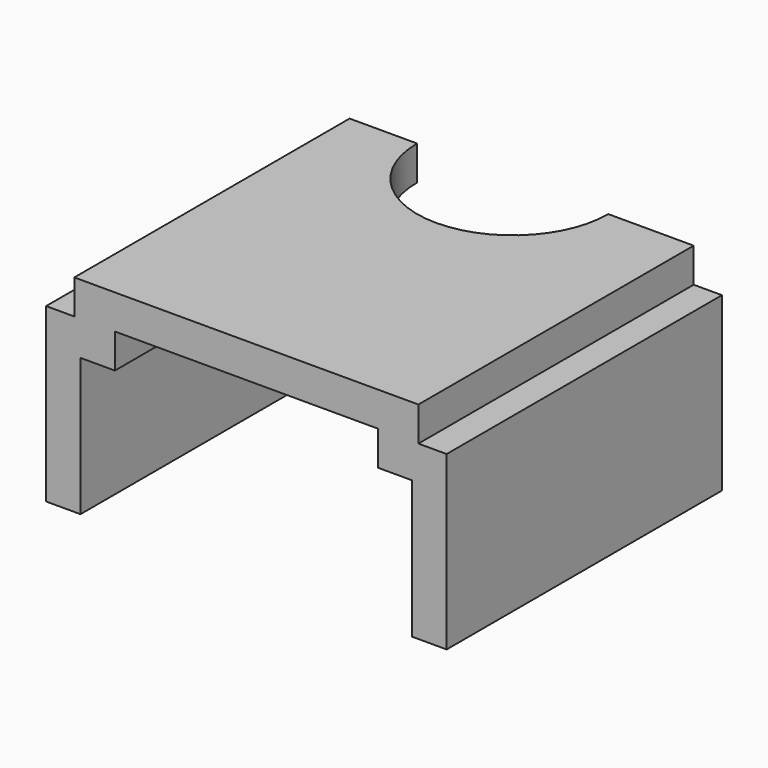
from build123d import *

# Parameters (mm, degrees)
F1_DEPTH = 254
F3_DEPTH = 152.401


with BuildPart() as f1:
    # F0 (on Front) → F1 (new body)
    with BuildSketch(Plane.XZ):
        Polygon((254, 0), (0, 0), (0, -25.4), (-20.846652, -25.4), (-20.846652, -152.4), (4.553348, -152.4), (4.553348, -50.8), (29.953348, -50.8), (29.953348, -25.4), (224.046652, -25.4), (224.046652, -50.8), (249.446652, -50.8), (249.446652, -152.4), (274.846652, -152.4), (274.846652, -25.4), (254, -25.4), align=None)
    extrude(amount=F1_DEPTH)

    # F2 (on face) → F3 (cut, through all)
    with BuildSketch(Plane.XY):
        with BuildLine():
            Line((190.993737, 0), (49.848396, 0))
            ThreePointArc((49.848396, 0), (120.421067, -70.572671), (190.993737, 0))
        make_face()
    extrude(amount=-F3_DEPTH, mode=Mode.SUBTRACT)


solid = f1.part
